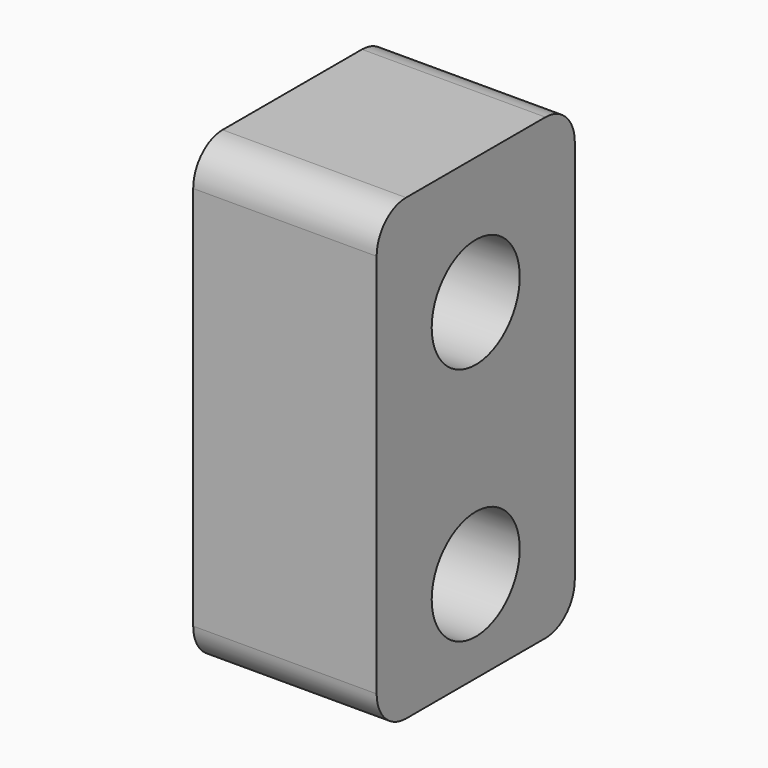
from build123d import *

# Parameters (mm, degrees)
F0_W     = 10
F0_H     = 13.5
F1_DEPTH = 25
F2_R     = 3
F3_DEPTH = 3
F4_DEPTH = 25
F5_R     = 2


with BuildPart() as f1:
    # F0 (on Top) → F1 (new body)
    with BuildSketch(Plane.XY):
        Rectangle(F0_W, F0_H)
    extrude(amount=F1_DEPTH)

    # F2 (on face) → F3 (cut)
    with BuildSketch(Plane(origin=(-5, 0, 0), x_dir=(0, -1, 0), z_dir=(-1, 0, 0))):
        Polygon((2.857884, 23), (-2.857884, 23), (-5.715768, 18.05), (-2.857884, 13.1), (2.857884, 13.1), (5.715768, 18.05), align=None)
        with Locations((0, 18.05)):
            Circle(F2_R, mode=Mode.SUBTRACT)
    extrude(amount=-F3_DEPTH, mode=Mode.SUBTRACT)

    # F2 (on face) → F4 (cut)
    with BuildSketch(Plane(origin=(-5, 0, 0), x_dir=(0, -1, 0), z_dir=(-1, 0, 0))):
        with Locations((0, 5)):
            Circle(F2_R)
        with Locations((0, 18.05)):
            Circle(F2_R)
    extrude(amount=-F4_DEPTH, mode=Mode.SUBTRACT)

    # F5
    f5_edges = [f1.edges().sort_by_distance(p)[0] for p in [
        (0, -6.75, 25),
        (0, 6.75, 25),
        (0, -6.75, 0),
        (0, 6.75, 0),
    ]]
    fillet(f5_edges, radius=F5_R)


solid = f1.part
